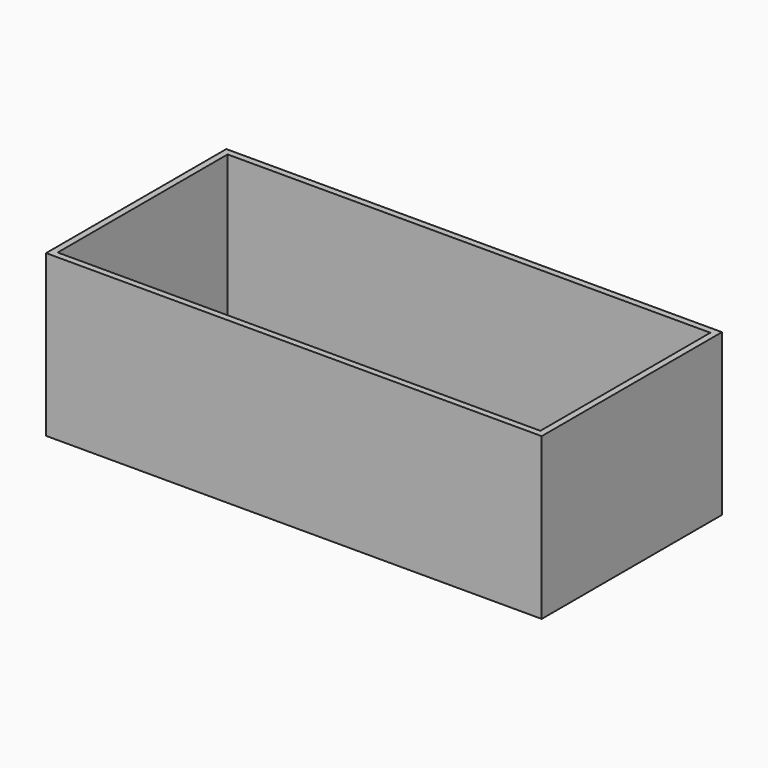
from build123d import *

# Parameters (mm, degrees)
F1_DEPTH = 25


with BuildPart() as f1:
    # F0 (on Top) → F1 (new body, symmetric)
    with BuildSketch(Plane.XY):
        Polygon((-75, -33), (-75, 0), (-77, 0), (-77, -35), (77, -35), (77, 0), (75, 0), (75, -33), align=None)
        Polygon((-77, 0), (-75, 0), (-75, 33), (75, 33), (75, 0), (77, 0), (77, 35), (-77, 35), align=None)
    extrude(amount=F1_DEPTH, both=True)


solid = f1.part
